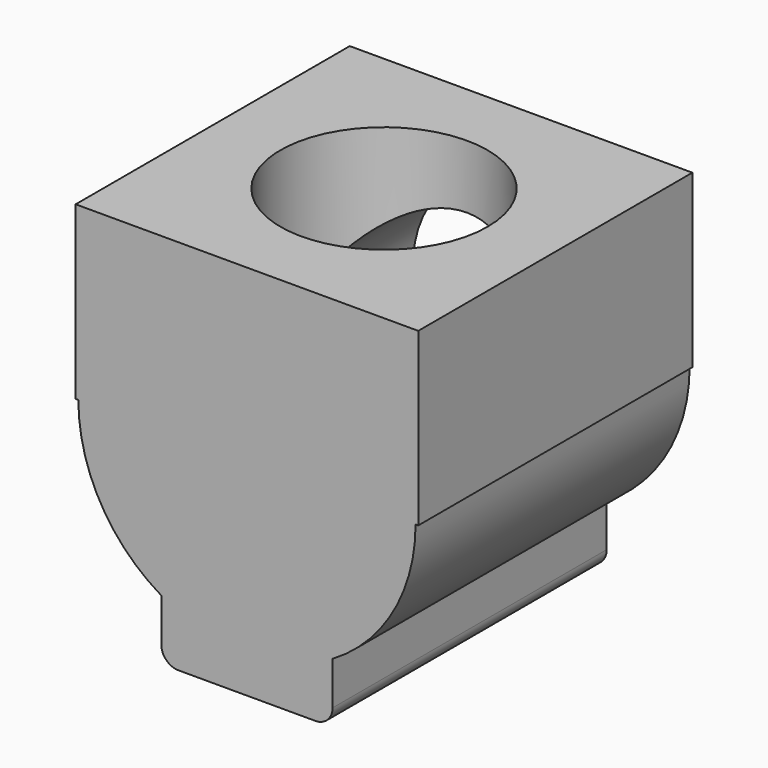
from build123d import *

# Parameters (mm, degrees)
F1_R          = 5
F2_DEPTH      = 34.64052
F3_W          = 5.08
F3_H          = 2.89434
F4_DEPTH      = 34.64052
F6_W          = 2.54
F6_H          = 7.62
F7_DEPTH      = 3.81
F7_DEPTH_BACK = 3.81
F8_R          = 0.762
F9_R          = 0.508
F10_R         = 4.826
F11_DEPTH     = 2.032
F12_W         = 10.16
F12_H         = 10.16
F13_DEPTH     = 5.08
F14_R         = 3.0734
F15_DEPTH     = 5.08
F16_W         = 10.16
F16_H         = 10.16
F17_DEPTH     = 6.09474
F18_R         = 3.81
F19_DEPTH     = 8.89
F5_R          = 3.2004
F20_DEPTH     = 31.75
F21_R         = 1.27
F22_W         = 24.48052
F22_H         = 22.7021586563
F23_DEPTH     = 25.4
F24_R         = 4.1483238307
F25_DEPTH     = 2.032


with BuildPart() as f2:
    # F1 (on Front) → F2 (new body)
    with BuildSketch(Plane.XZ):
        Circle(F1_R)
    extrude(amount=-F2_DEPTH)

    # F3 (on face) → F4 (join, through all)
    with BuildSketch(Plane.XZ):
        with Locations((0, -4.64757)):
            Rectangle(F3_W, F3_H)
    extrude(amount=-F4_DEPTH)

    # F6 (on Right) → F7 (join, two sides)
    with BuildSketch(Plane.YZ) as f7_sk:
        with Locations((32.60852, 6.35)):
            Rectangle(F6_W, F6_H)
        with Locations((24.98852, 6.35)):
            Rectangle(F6_W, F6_H)
    extrude(amount=F7_DEPTH)
    extrude(f7_sk.sketch, amount=-F7_DEPTH_BACK)

    # F8
    f8_edges = [f2.edges().sort_by_distance(p)[0] for p in [
        (0, 26.25852, 10.16),
        (0, 31.33852, 10.16),
        (0, 33.87852, 10.16),
        (0, 23.71852, 10.16),
        (-3.81, 26.25852, 6.698943),
        (-3.81, 23.71852, 6.698943),
        (-3.81, 24.98852, 10.16),
        (-3.81, 31.33852, 6.698943),
        (-3.81, 32.60852, 10.16),
        (-3.81, 33.87852, 6.698943),
        (3.81, 24.98852, 10.16),
        (3.81, 26.25852, 6.698943),
        (3.81, 23.71852, 6.698943),
        (3.81, 31.33852, 6.698943),
        (3.81, 32.60852, 10.16),
        (3.81, 33.87852, 6.698943),
    ]]
    fillet(f8_edges, radius=F8_R)

    # F9
    f9_edges = [f2.edges().sort_by_distance(p)[0] for p in [
        (-2.54, 17.32026, -6.09474),
        (2.54, 17.32026, -6.09474),
    ]]
    fillet(f9_edges, radius=F9_R)

    # F10 (on face) → F11 (join)
    with BuildSketch(Plane.XZ):
        Circle(F10_R)
    extrude(amount=-F11_DEPTH)

    # F12 (on Top) → F13 (join)
    with BuildSketch(Plane.XY):
        with Locations((0, 5.08)):
            Rectangle(F12_W, F12_H)
    extrude(amount=F13_DEPTH)

    # F14 (on face) → F15 (cut)
    with BuildSketch(Plane.XY.offset(5.08)):
        with Locations((0, 5.08)):
            Circle(F14_R)
    extrude(amount=-F15_DEPTH, mode=Mode.SUBTRACT)

    # F16 (on Top) → F17 (join, through all)
    with BuildSketch(Plane.XY):
        with Locations((0, 29.56052)):
            Rectangle(F16_W, F16_H)
    extrude(amount=-F17_DEPTH)

    # F18 (on face) → F19 (cut)
    with BuildSketch(Plane(origin=(0, 0, -6.09474), x_dir=(1, 0, 0), z_dir=(0, 0, -1))):
        with Locations((0, -29.56052)):
            Circle(F18_R)
    extrude(amount=-F19_DEPTH, mode=Mode.SUBTRACT)

    # F5 (on face) → F20 (cut)
    with BuildSketch(Plane.XZ):
        Circle(F5_R)
    extrude(amount=-F20_DEPTH, mode=Mode.SUBTRACT)

    # F21
    f21_edges = [f2.edges().sort_by_distance(p)[0] for p in [
        (-2.070993, 32.758502, 2.79526),
        (3.197982, 27.489527, 2.79526),
    ]]
    fillet(f21_edges, radius=F21_R)

    # F22 (on face) → F23 (cut)
    with BuildSketch(Plane(origin=(-5.08, 0, 0), x_dir=(0, -1, 0), z_dir=(-1, 0, 0))):
        with Locations((-22.40026, 5.2563393282)):
            Rectangle(F22_W, F22_H)
    extrude(amount=-F23_DEPTH, mode=Mode.SUBTRACT)

    # F24 (on face) → F25 (join)
    with BuildSketch(Plane.XZ):
        Circle(F24_R)
    extrude(amount=-F25_DEPTH)


solid = f2.part
